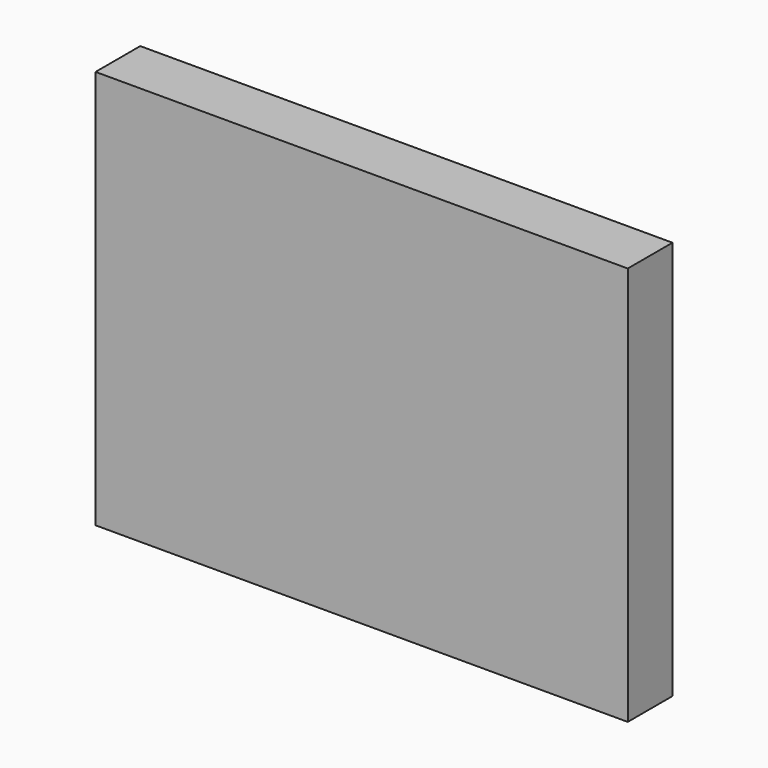
from build123d import *

# Parameters (mm, degrees)
F0_W     = 200
F0_H     = 150
F0_W_2   = 162
F0_H_2   = 112
F1_DEPTH = 21
F2_DEPTH = 5


with BuildPart() as f1:
    # F0 (on Front) → F1 (new body)
    with BuildSketch(Plane.XZ):
        Rectangle(F0_W, F0_H)
        Rectangle(F0_W_2, F0_H_2, mode=Mode.SUBTRACT)
        Rectangle(F0_W_2, F0_H_2)
    extrude(amount=F1_DEPTH)

    # F0 (on Front) → F2 (cut)
    with BuildSketch(Plane.XZ):
        Rectangle(F0_W_2, F0_H_2)
    extrude(amount=F2_DEPTH, mode=Mode.SUBTRACT)


solid = f1.part
